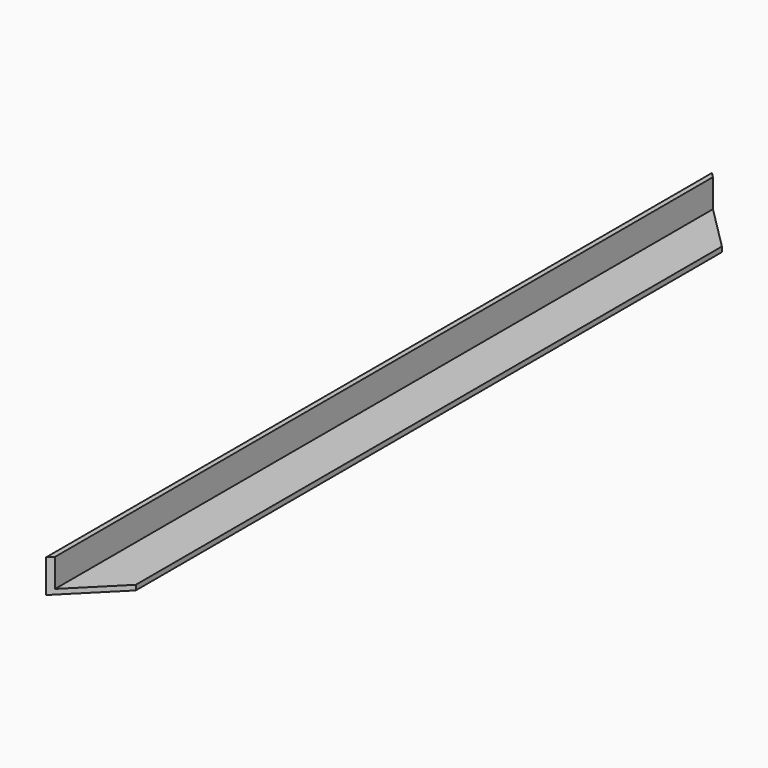
from build123d import *

# Parameters (mm, degrees)
BOX023_W               = 100
BOX023_H               = 100
BOX023_DEPTH           = 30
BOX023_PLACEMENT_ANGLE = -45
BOX022_W               = 30
BOX022_H               = 100
BOX022_DEPTH           = 30
BOX022_PLACEMENT_ANGLE = -45
PAD001_DEPTH           = 501


with BuildPart() as cube008:
    # Box023 → Box023 (new body)
    with BuildSketch(Plane.XY):
        with Locations((50, 50)):
            Rectangle(BOX023_W, BOX023_H)
    extrude(amount=BOX023_DEPTH)


with BuildPart() as cube008_1:
    # Box023 placement: moved
    add(cube008.part.moved(Location((-3, 498, -3))).rotate(Axis((-3, 498, -3), (0, 0, 1)), BOX023_PLACEMENT_ANGLE))


with BuildPart() as cube007:
    # Box022 → Box022 (new body)
    with BuildSketch(Plane.XY):
        with Locations((15, 50)):
            Rectangle(BOX022_W, BOX022_H)
    extrude(amount=BOX022_DEPTH)


with BuildPart() as cube007_1:
    # Box022 placement: moved
    add(cube007.part.moved(Location((-3, -3, -3))).rotate(Axis((-3, -3, -3), (0, 0, 1)), BOX022_PLACEMENT_ANGLE))


with BuildPart() as rahmen3:
    # Sketch001 → Pad001 (new body)
    with BuildSketch(Plane.XZ.offset(3)):
        Polygon((0, 17), (0, 0), (27, 0), (27, -3), (-3, -3), (-3, 17), align=None)
    extrude(amount=-PAD001_DEPTH)

    # Cut003: cut Cube007
    add(cube007_1.part, mode=Mode.SUBTRACT)

    # Cut004: cut Cube008
    add(cube008_1.part, mode=Mode.SUBTRACT)


solid = rahmen3.part
